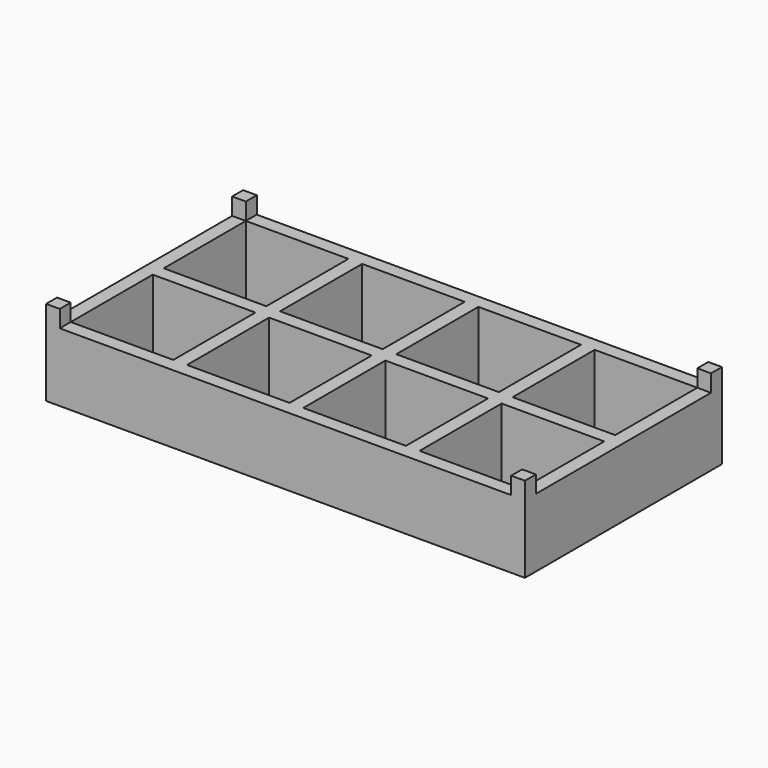
from build123d import *

# Parameters (mm, degrees)
F0_W     = 177.8
F0_H     = 91.44
F0_W_2   = 38.1
F0_H_2   = 38.1
F1_DEPTH = 25.4
F2_W     = 5.08
F2_H     = 5.08
F3_DEPTH = 6.35


with BuildPart() as f1:
    # F0 (on Top) → F1 (new body)
    with BuildSketch(Plane.XY):
        with Locations((-0.942165, 55.466111)):
            Rectangle(F0_W, F0_H)
        with Locations((-65.712165, 33.876111)):
            Rectangle(F0_W_2, F0_H_2, mode=Mode.SUBTRACT)
        with Locations((-22.532165, 33.876111)):
            Rectangle(F0_W_2, F0_H_2, mode=Mode.SUBTRACT)
        with Locations((20.647835, 33.876111)):
            Rectangle(F0_W_2, F0_H_2, mode=Mode.SUBTRACT)
        with Locations((63.827835, 33.876111)):
            Rectangle(F0_W_2, F0_H_2, mode=Mode.SUBTRACT)
        with Locations((-65.712165, 77.056111)):
            Rectangle(F0_W_2, F0_H_2, mode=Mode.SUBTRACT)
        with Locations((-22.532165, 77.056111)):
            Rectangle(F0_W_2, F0_H_2, mode=Mode.SUBTRACT)
        with Locations((20.647835, 77.056111)):
            Rectangle(F0_W_2, F0_H_2, mode=Mode.SUBTRACT)
        with Locations((63.827835, 77.056111)):
            Rectangle(F0_W_2, F0_H_2, mode=Mode.SUBTRACT)
    extrude(amount=F1_DEPTH)

    # F2 (on face) → F3 (join)
    with BuildSketch(Plane.XY.offset(25.4)):
        with Locations((-87.302165, 98.646111)):
            Rectangle(F2_W, F2_H)
        with Locations((-87.302165, 12.286111)):
            Rectangle(F2_W, F2_H)
        with Locations((85.417835, 12.286111)):
            Rectangle(F2_W, F2_H)
        with Locations((85.417835, 98.646111)):
            Rectangle(F2_W, F2_H)
    extrude(amount=F3_DEPTH)


solid = f1.part
